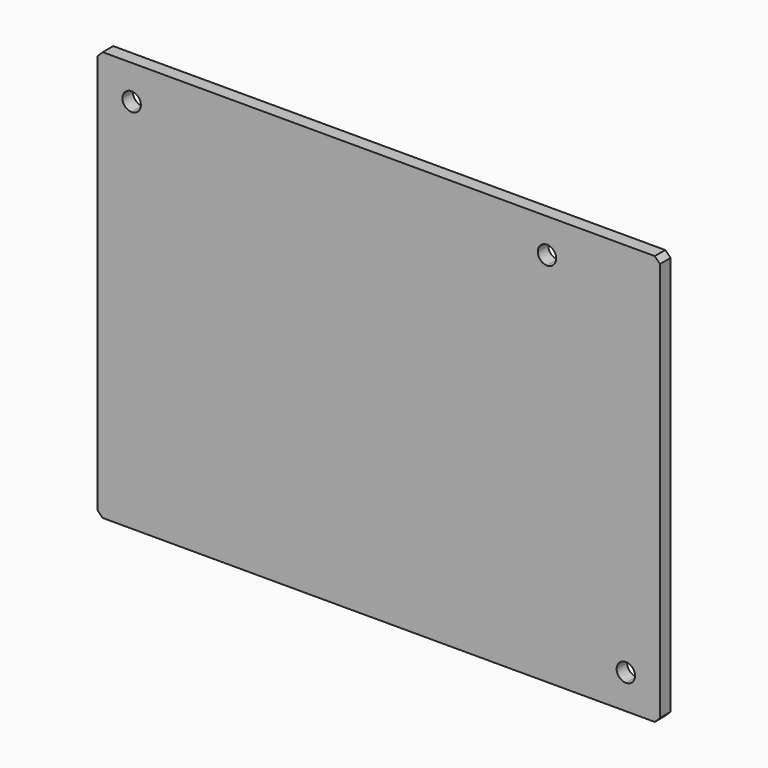
from build123d import *

# Parameters (mm, degrees)
F1_DEPTH = 5


with BuildPart() as f1:
    # F0 (on Front) → F1 (new body)
    with BuildSketch(Plane.XZ):
        Polygon((-223.760635, 67.448133), (-225.760635, 65.448133), (-225.760635, -86.551867), (-223.760635, -88.551867), (-13.760635, -88.551867), (-11.760635, -86.551867), (-11.760635, 65.448133), (-13.760635, 67.448133), align=None)
        with BuildLine():
            ThreePointArc((-24.760635, -72.051867), (-22.285761, -73.076993), (-21.260635, -75.551867))
            ThreePointArc((-21.260635, -75.551867), (-22.285761, -78.026741), (-24.760635, -79.051867))
            ThreePointArc((-24.760635, -79.051867), (-27.235509, -78.026741), (-28.260635, -75.551867))
            ThreePointArc((-28.260635, -75.551867), (-27.235509, -73.076993), (-24.760635, -72.051867))
        make_face(mode=Mode.SUBTRACT)
        with BuildLine():
            ThreePointArc((-212.760635, 57.948133), (-210.285761, 56.923007), (-209.260635, 54.448133))
            ThreePointArc((-209.260635, 54.448133), (-210.285761, 51.973259), (-212.760635, 50.948133))
            ThreePointArc((-212.760635, 50.948133), (-215.235509, 51.973259), (-216.260635, 54.448133))
            ThreePointArc((-216.260635, 54.448133), (-215.235509, 56.923007), (-212.760635, 57.948133))
        make_face(mode=Mode.SUBTRACT)
        with BuildLine():
            ThreePointArc((-54.760635, 57.948133), (-52.285761, 56.923007), (-51.260635, 54.448133))
            ThreePointArc((-51.260635, 54.448133), (-52.285761, 51.973259), (-54.760635, 50.948133))
            ThreePointArc((-54.760635, 50.948133), (-57.235509, 51.973259), (-58.260635, 54.448133))
            ThreePointArc((-58.260635, 54.448133), (-57.235509, 56.923007), (-54.760635, 57.948133))
        make_face(mode=Mode.SUBTRACT)
    extrude(amount=-F1_DEPTH)


solid = f1.part
